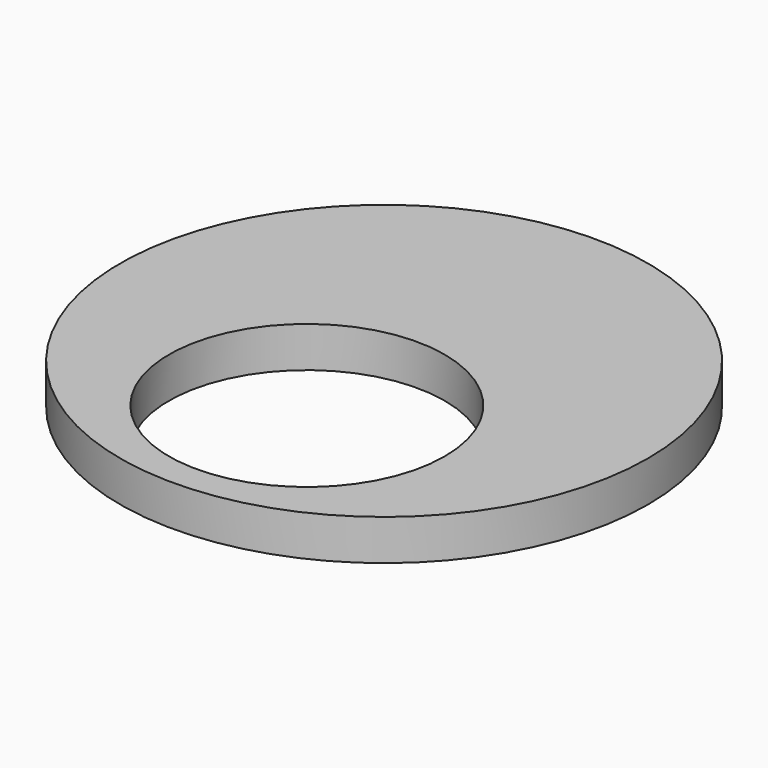
from build123d import *

# Parameters (mm, degrees)
F0_R     = 164.923636
F0_R_2   = 86.152115
F1_DEPTH = 25.4


with BuildPart() as f1:
    # F0 (on Top) → F1 (new body)
    with BuildSketch(Plane.XY):
        with Locations((0, 60.345147)):
            Circle(F0_R)
        Circle(F0_R_2, mode=Mode.SUBTRACT)
    extrude(amount=F1_DEPTH)


solid = f1.part
